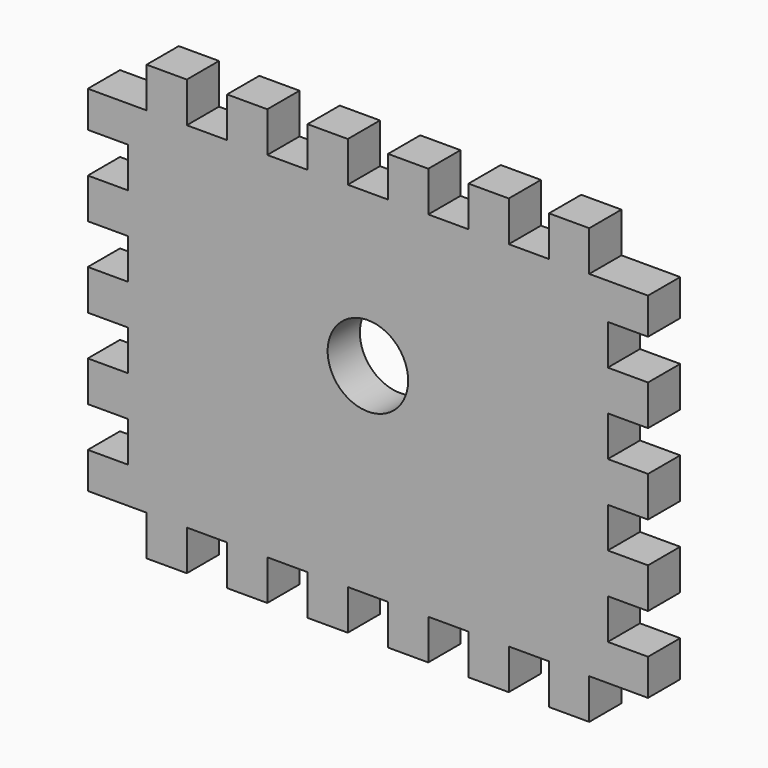
from build123d import *

# Parameters (mm, degrees)
F0_R     = 6.35
F1_DEPTH = 6.35


with BuildPart() as f1:
    # F0 (on Front) → F1 (new body)
    with BuildSketch(Plane.XZ):
        Polygon((44.196, 27.94), (37.846, 27.94), (34.925, 27.94), (34.925, 34.29), (28.575, 34.29), (28.575, 27.94), (22.225, 27.94), (22.225, 34.29), (15.875, 34.29), (15.875, 27.94), (9.525, 27.94), (9.525, 34.29), (3.175, 34.29), (3.175, 27.94), (-3.175, 27.94), (-3.175, 34.29), (-9.525, 34.29), (-9.525, 27.94), (-15.875, 27.94), (-15.875, 34.29), (-22.225, 34.29), (-22.225, 27.94), (-28.575, 27.94), (-28.575, 34.29), (-34.925, 34.29), (-34.925, 27.94), (-37.846, 27.94), (-44.196, 27.94), (-44.196, 22.225), (-37.846, 22.225), (-37.846, 15.875), (-44.196, 15.875), (-44.196, 9.525), (-37.846, 9.525), (-37.846, 3.175), (-44.196, 3.175), (-44.196, -3.175), (-37.846, -3.175), (-37.846, -9.525), (-44.196, -9.525), (-44.196, -15.875), (-37.846, -15.875), (-37.846, -22.225), (-44.196, -22.225), (-44.196, -27.94), (-37.846, -27.94), (-34.925, -27.94), (-34.925, -34.29), (-28.575, -34.29), (-28.575, -27.94), (-22.225, -27.94), (-22.225, -34.29), (-15.875, -34.29), (-15.875, -27.94), (-9.525, -27.94), (-9.525, -34.29), (-3.175, -34.29), (-3.175, -27.94), (3.175, -27.94), (3.175, -34.29), (9.525, -34.29), (9.525, -27.94), (15.875, -27.94), (15.875, -34.29), (22.225, -34.29), (22.225, -27.94), (28.575, -27.94), (28.575, -34.29), (34.925, -34.29), (34.925, -27.94), (37.846, -27.94), (44.196, -27.94), (44.196, -22.225), (37.846, -22.225), (37.846, -15.875), (44.196, -15.875), (44.196, -9.525), (37.846, -9.525), (37.846, -3.175), (44.196, -3.175), (44.196, 3.175), (37.846, 3.175), (37.846, 9.525), (44.196, 9.525), (44.196, 15.875), (37.846, 15.875), (37.846, 22.225), (44.196, 22.225), align=None)
        with Locations((0, 3.81)):
            Circle(F0_R, mode=Mode.SUBTRACT)
    extrude(amount=F1_DEPTH)


solid = f1.part
